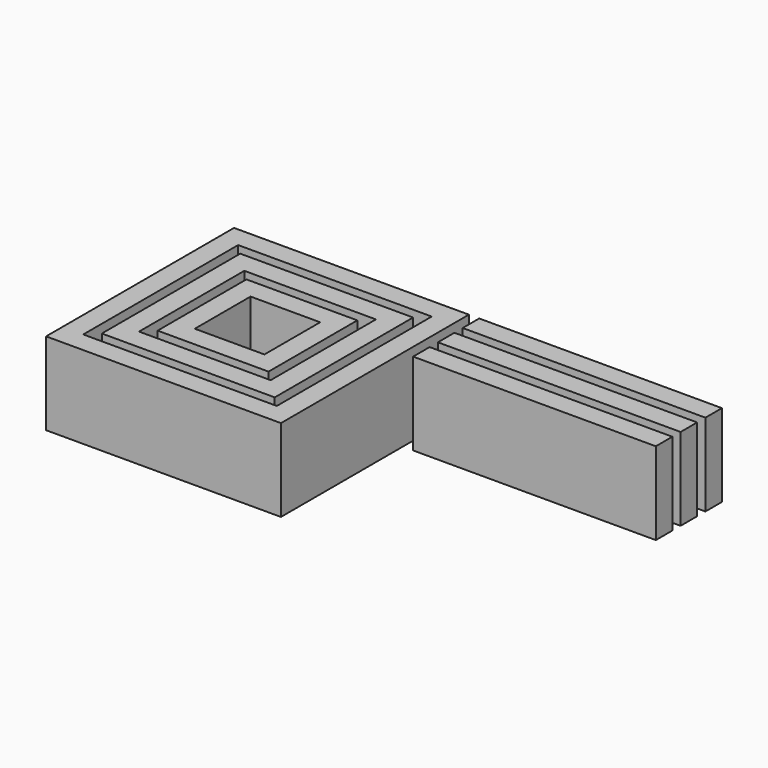
from build123d import *

# Parameters (mm, degrees)
F0_W     = 74.618454
F0_H     = 6.35
F1_DEPTH = 25.4


with BuildPart() as f1:
    # F0 (on Top) → F1 (new body)
    with BuildSketch(Plane.XY):
        Polygon((-86.982064, 87.40674), (-65.579541, 87.40674), (-59.229541, 93.75674), (-93.332064, 93.75674), align=None)
        Polygon((-65.579541, 87.40674), (-65.579541, 65.984696), (-59.229541, 59.634696), (-59.229541, 93.75674), align=None)
        Polygon((-93.332064, 59.634696), (-86.982064, 65.984696), (-86.982064, 87.40674), (-93.332064, 93.75674), align=None)
        Polygon((-59.229541, 59.634696), (-65.579541, 65.984696), (-86.982064, 65.984696), (-93.332064, 59.634696), align=None)
        Polygon((-49.704541, 103.28174), (-56.054541, 96.93174), (-56.054541, 56.459696), (-49.704541, 50.109696), align=None)
        Polygon((-96.507064, 56.459696), (-96.507064, 96.93174), (-102.857064, 103.28174), (-102.857064, 50.109696), align=None)
        Polygon((-49.704541, 50.109696), (-56.054541, 56.459696), (-96.507064, 56.459696), (-102.857064, 50.109696), align=None)
        Polygon((-96.507064, 96.93174), (-56.054541, 96.93174), (-49.704541, 103.28174), (-102.857064, 103.28174), align=None)
        Polygon((-106.032064, 106.45674), (-46.529541, 106.45674), (-40.179541, 112.80674), (-112.382064, 112.80674), align=None)
        Polygon((-40.179541, 112.80674), (-46.529541, 106.45674), (-46.529541, 46.934696), (-40.179541, 40.584696), align=None)
        Polygon((-106.032064, 46.934696), (-106.032064, 106.45674), (-112.382064, 112.80674), (-112.382064, 40.584696), align=None)
        Polygon((-40.179541, 40.584696), (-46.529541, 46.934696), (-106.032064, 46.934696), (-112.382064, 40.584696), align=None)
        with Locations((0.304686, 100.10674)):
            Rectangle(F0_W, F0_H)
        with Locations((0.304686, 109.63174)):
            Rectangle(F0_W, F0_H)
        with Locations((0.304686, 90.58174)):
            Rectangle(F0_W, F0_H)
    extrude(amount=F1_DEPTH)


solid = f1.part
